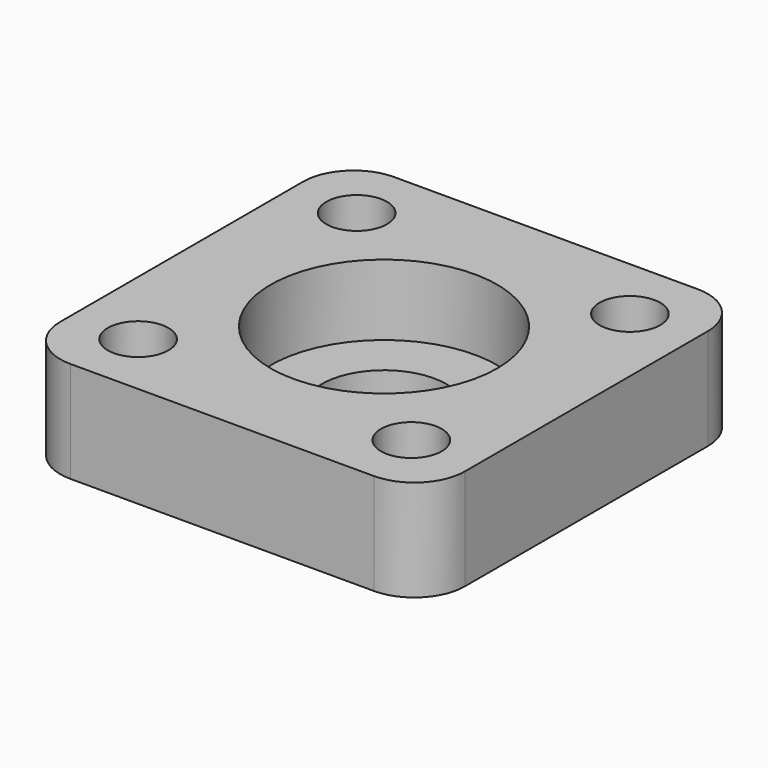
from build123d import *

# Parameters (mm, degrees)
F0_W     = 40
F0_H     = 40
F0_R     = 3
F0_R_2   = 11.2
F1_DEPTH = 10
F0_R_3   = 6.15
F2_DEPTH = 3
F3_R     = 5


with BuildPart() as f1:
    # F0 (on Top) → F1 (new body)
    with BuildSketch(Plane.XY):
        Rectangle(F0_W, F0_H)
        with Locations((-13.5, -13.5)):
            Circle(F0_R, mode=Mode.SUBTRACT)
        with Locations((13.5, -13.5)):
            Circle(F0_R, mode=Mode.SUBTRACT)
        with Locations((-13.5, 13.5)):
            Circle(F0_R, mode=Mode.SUBTRACT)
        Circle(F0_R_2, mode=Mode.SUBTRACT)
        with Locations((13.5, 13.5)):
            Circle(F0_R, mode=Mode.SUBTRACT)
    extrude(amount=F1_DEPTH)

    # F0 (on Top) → F2 (join)
    with BuildSketch(Plane.XY):
        Circle(F0_R_2)
        Circle(F0_R_3, mode=Mode.SUBTRACT)
    extrude(amount=F2_DEPTH)

    # F3
    f3_edges = [f1.edges().sort_by_distance(p)[0] for p in [
        (-20, -20, 5),
        (20, -20, 5),
        (20, 20, 5),
        (-20, 20, 5),
    ]]
    fillet(f3_edges, radius=F3_R)


solid = f1.part
